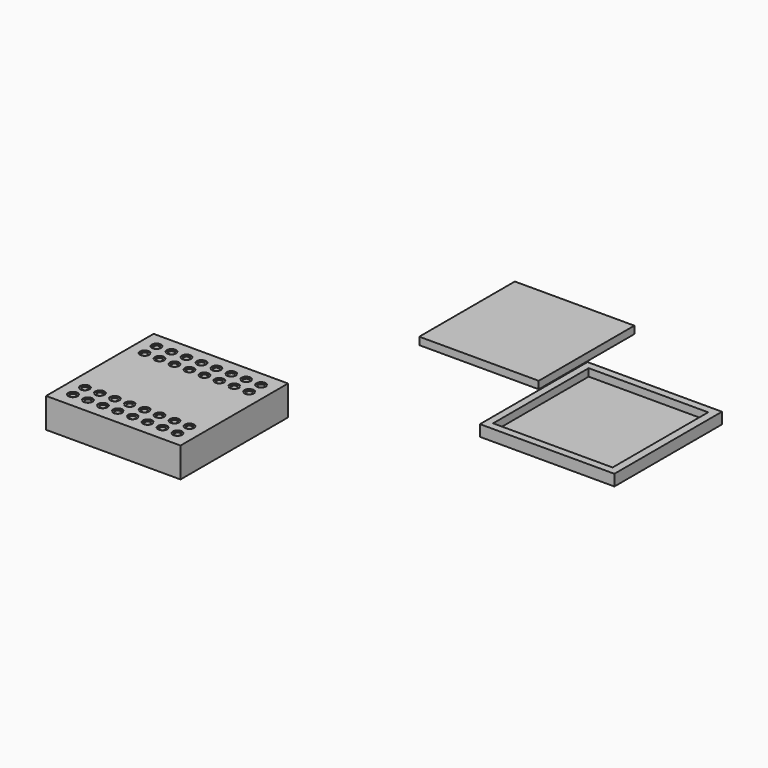
from build123d import *

# Parameters (mm, degrees)
F0_W      = 203.2
F0_H      = 203.2
F1_DEPTH  = 12.7
F2_R      = 6.35
F3_DEPTH  = 6.35
F4_W      = 228.6
F4_H      = 228.6
F5_DEPTH  = 19.05
F6_W      = 203.2
F6_H      = 203.2
F7_DEPTH  = 12.7
F8_W      = 228.6
F8_H      = 228.6
F9_DEPTH  = 50.8
F10_R     = 4.7625
F11_DEPTH = 44.45
F12_R     = 7.9375
F13_DEPTH = 1.5875


with BuildPart() as f1:
    # F0 (on Top) → F1 (new body)
    with BuildSketch(Plane.XY):
        with Locations((-90.807755, 5.799797)):
            Rectangle(F0_W, F0_H)
    extrude(amount=F1_DEPTH)

    # F2 (on face) → F3 (cut)
    with BuildSketch(Plane(origin=(0, 0, 0), x_dir=(1, 0, 0), z_dir=(0, 0, -1))):
        with Locations((-179.707755, 83.100203)):
            Circle(F2_R)
        with Locations((-179.707755, 57.700203)):
            Circle(F2_R)
        with Locations((-179.707755, 32.300203)):
            Circle(F2_R)
        with Locations((-179.707755, 6.900203)):
            Circle(F2_R)
        with Locations((-179.707755, -18.499797)):
            Circle(F2_R)
        with Locations((-179.707755, -43.899797)):
            Circle(F2_R)
        with Locations((-179.707755, -69.299797)):
            Circle(F2_R)
        with Locations((-179.707755, -94.699797)):
            Circle(F2_R)
        with Locations((-154.307755, 83.100203)):
            Circle(F2_R)
        with Locations((-154.307755, 57.700203)):
            Circle(F2_R)
        with Locations((-154.307755, 32.300203)):
            Circle(F2_R)
        with Locations((-154.307755, 6.900203)):
            Circle(F2_R)
        with Locations((-154.307755, -18.499797)):
            Circle(F2_R)
        with Locations((-154.307755, -43.899797)):
            Circle(F2_R)
        with Locations((-154.307755, -69.299797)):
            Circle(F2_R)
        with Locations((-154.307755, -94.699797)):
            Circle(F2_R)
        with Locations((-128.907755, 83.100203)):
            Circle(F2_R)
        with Locations((-128.907755, 57.700203)):
            Circle(F2_R)
        with Locations((-128.907755, 32.300203)):
            Circle(F2_R)
        with Locations((-128.907755, 6.900203)):
            Circle(F2_R)
        with Locations((-128.907755, -18.499797)):
            Circle(F2_R)
        with Locations((-128.907755, -43.899797)):
            Circle(F2_R)
        with Locations((-128.907755, -69.299797)):
            Circle(F2_R)
        with Locations((-128.907755, -94.699797)):
            Circle(F2_R)
        with Locations((-103.507755, 83.100203)):
            Circle(F2_R)
        with Locations((-103.507755, 57.700203)):
            Circle(F2_R)
        with Locations((-103.507755, 32.300203)):
            Circle(F2_R)
        with Locations((-103.507755, 6.900203)):
            Circle(F2_R)
        with Locations((-103.507755, -18.499797)):
            Circle(F2_R)
        with Locations((-103.507755, -43.899797)):
            Circle(F2_R)
        with Locations((-103.507755, -69.299797)):
            Circle(F2_R)
        with Locations((-103.507755, -94.699797)):
            Circle(F2_R)
        with Locations((-78.107755, 83.100203)):
            Circle(F2_R)
        with Locations((-78.107755, 57.700203)):
            Circle(F2_R)
        with Locations((-78.107755, 32.300203)):
            Circle(F2_R)
        with Locations((-78.107755, 6.900203)):
            Circle(F2_R)
        with Locations((-78.107755, -18.499797)):
            Circle(F2_R)
        with Locations((-78.107755, -43.899797)):
            Circle(F2_R)
        with Locations((-78.107755, -69.299797)):
            Circle(F2_R)
        with Locations((-78.107755, -94.699797)):
            Circle(F2_R)
        with Locations((-52.707755, 83.100203)):
            Circle(F2_R)
        with Locations((-52.707755, 57.700203)):
            Circle(F2_R)
        with Locations((-52.707755, 32.300203)):
            Circle(F2_R)
        with Locations((-52.707755, 6.900203)):
            Circle(F2_R)
        with Locations((-52.707755, -18.499797)):
            Circle(F2_R)
        with Locations((-52.707755, -43.899797)):
            Circle(F2_R)
        with Locations((-52.707755, -69.299797)):
            Circle(F2_R)
        with Locations((-52.707755, -94.699797)):
            Circle(F2_R)
        with Locations((-27.307755, 83.100203)):
            Circle(F2_R)
        with Locations((-27.307755, 57.700203)):
            Circle(F2_R)
        with Locations((-27.307755, 32.300203)):
            Circle(F2_R)
        with Locations((-27.307755, 6.900203)):
            Circle(F2_R)
        with Locations((-27.307755, -18.499797)):
            Circle(F2_R)
        with Locations((-27.307755, -43.899797)):
            Circle(F2_R)
        with Locations((-27.307755, -69.299797)):
            Circle(F2_R)
        with Locations((-27.307755, -94.699797)):
            Circle(F2_R)
        with Locations((-1.907755, 83.100203)):
            Circle(F2_R)
        with Locations((-1.907755, 57.700203)):
            Circle(F2_R)
        with Locations((-1.907755, 32.300203)):
            Circle(F2_R)
        with Locations((-1.907755, 6.900203)):
            Circle(F2_R)
        with Locations((-1.907755, -18.499797)):
            Circle(F2_R)
        with Locations((-1.907755, -43.899797)):
            Circle(F2_R)
        with Locations((-1.907755, -69.299797)):
            Circle(F2_R)
        with Locations((-1.907755, -94.699797)):
            Circle(F2_R)
    extrude(amount=-F3_DEPTH, mode=Mode.SUBTRACT)


with BuildPart() as f5:
    # F4 (on Top) → F5 (new body)
    with BuildSketch(Plane.XY):
        with Locations((149.59503, -137.072037)):
            Rectangle(F4_W, F4_H)
    extrude(amount=F5_DEPTH)

    # F6 (on face) → F7 (cut)
    with BuildSketch(Plane.XY.offset(19.05)):
        with Locations((149.052657, -137.072037)):
            Rectangle(F6_W, F6_H)
    extrude(amount=-F7_DEPTH, mode=Mode.SUBTRACT)


with BuildPart() as f9:
    # F8 (on Top) → F9 (new body)
    with BuildSketch(Plane.XY):
        with Locations((-312.948567, -481.234861)):
            Rectangle(F8_W, F8_H)
    extrude(amount=F9_DEPTH)

    # F10 (on face) → F11 (cut)
    with BuildSketch(Plane.XY.offset(50.8)):
        with Locations((-401.848567, -392.334861)):
            Circle(F10_R)
        with Locations((-401.848567, -417.734861)):
            Circle(F10_R)
        with Locations((-376.448567, -392.334861)):
            Circle(F10_R)
        with Locations((-376.448567, -417.734861)):
            Circle(F10_R)
        with Locations((-351.048567, -392.334861)):
            Circle(F10_R)
        with Locations((-351.048567, -417.734861)):
            Circle(F10_R)
        with Locations((-325.648567, -392.334861)):
            Circle(F10_R)
        with Locations((-325.648567, -417.734861)):
            Circle(F10_R)
        with Locations((-300.248567, -392.334861)):
            Circle(F10_R)
        with Locations((-300.248567, -417.734861)):
            Circle(F10_R)
        with Locations((-274.848567, -392.334861)):
            Circle(F10_R)
        with Locations((-274.848567, -417.734861)):
            Circle(F10_R)
        with Locations((-249.448567, -392.334861)):
            Circle(F10_R)
        with Locations((-249.448567, -417.734861)):
            Circle(F10_R)
        with Locations((-224.048567, -392.334861)):
            Circle(F10_R)
        with Locations((-224.048567, -417.734861)):
            Circle(F10_R)
        with Locations((-401.848567, -570.134861)):
            Circle(F10_R)
        with Locations((-401.848567, -544.734861)):
            Circle(F10_R)
        with Locations((-376.448567, -570.134861)):
            Circle(F10_R)
        with Locations((-376.448567, -544.734861)):
            Circle(F10_R)
        with Locations((-351.048567, -570.134861)):
            Circle(F10_R)
        with Locations((-351.048567, -544.734861)):
            Circle(F10_R)
        with Locations((-325.648567, -570.134861)):
            Circle(F10_R)
        with Locations((-325.648567, -544.734861)):
            Circle(F10_R)
        with Locations((-300.248567, -570.134861)):
            Circle(F10_R)
        with Locations((-300.248567, -544.734861)):
            Circle(F10_R)
        with Locations((-274.848567, -570.134861)):
            Circle(F10_R)
        with Locations((-274.848567, -544.734861)):
            Circle(F10_R)
        with Locations((-249.448567, -570.134861)):
            Circle(F10_R)
        with Locations((-249.448567, -544.734861)):
            Circle(F10_R)
        with Locations((-224.048567, -570.134861)):
            Circle(F10_R)
        with Locations((-224.048567, -544.734861)):
            Circle(F10_R)
    extrude(amount=-F11_DEPTH, mode=Mode.SUBTRACT)

    # F12 (on face) → F13 (cut)
    with BuildSketch(Plane.XY.offset(50.8)):
        with Locations((-401.848567, -392.334861)):
            Circle(F12_R)
        with Locations((-401.848567, -417.734861)):
            Circle(F12_R)
        with Locations((-376.448567, -392.334861)):
            Circle(F12_R)
        with Locations((-376.448567, -417.734861)):
            Circle(F12_R)
        with Locations((-351.048567, -392.334861)):
            Circle(F12_R)
        with Locations((-351.048567, -417.734861)):
            Circle(F12_R)
        with Locations((-325.648567, -392.334861)):
            Circle(F12_R)
        with Locations((-325.648567, -417.734861)):
            Circle(F12_R)
        with Locations((-300.248567, -392.334861)):
            Circle(F12_R)
        with Locations((-300.248567, -417.734861)):
            Circle(F12_R)
        with Locations((-274.848567, -392.334861)):
            Circle(F12_R)
        with Locations((-274.848567, -417.734861)):
            Circle(F12_R)
        with Locations((-249.448567, -392.334861)):
            Circle(F12_R)
        with Locations((-249.448567, -417.734861)):
            Circle(F12_R)
        with Locations((-224.048567, -392.334861)):
            Circle(F12_R)
        with Locations((-224.048567, -417.734861)):
            Circle(F12_R)
        with Locations((-401.848567, -570.134861)):
            Circle(F12_R)
        with Locations((-401.848567, -544.734861)):
            Circle(F12_R)
        with Locations((-376.448567, -570.134861)):
            Circle(F12_R)
        with Locations((-376.448567, -544.734861)):
            Circle(F12_R)
        with Locations((-351.048567, -570.134861)):
            Circle(F12_R)
        with Locations((-351.048567, -544.734861)):
            Circle(F12_R)
        with Locations((-325.648567, -570.134861)):
            Circle(F12_R)
        with Locations((-325.648567, -544.734861)):
            Circle(F12_R)
        with Locations((-300.248567, -570.134861)):
            Circle(F12_R)
        with Locations((-300.248567, -544.734861)):
            Circle(F12_R)
        with Locations((-274.848567, -570.134861)):
            Circle(F12_R)
        with Locations((-274.848567, -544.734861)):
            Circle(F12_R)
        with Locations((-249.448567, -570.134861)):
            Circle(F12_R)
        with Locations((-249.448567, -544.734861)):
            Circle(F12_R)
        with Locations((-224.048567, -570.134861)):
            Circle(F12_R)
        with Locations((-224.048567, -544.734861)):
            Circle(F12_R)
    extrude(amount=-F13_DEPTH, mode=Mode.SUBTRACT)


solid = Compound([f1.part, f5.part, f9.part])
